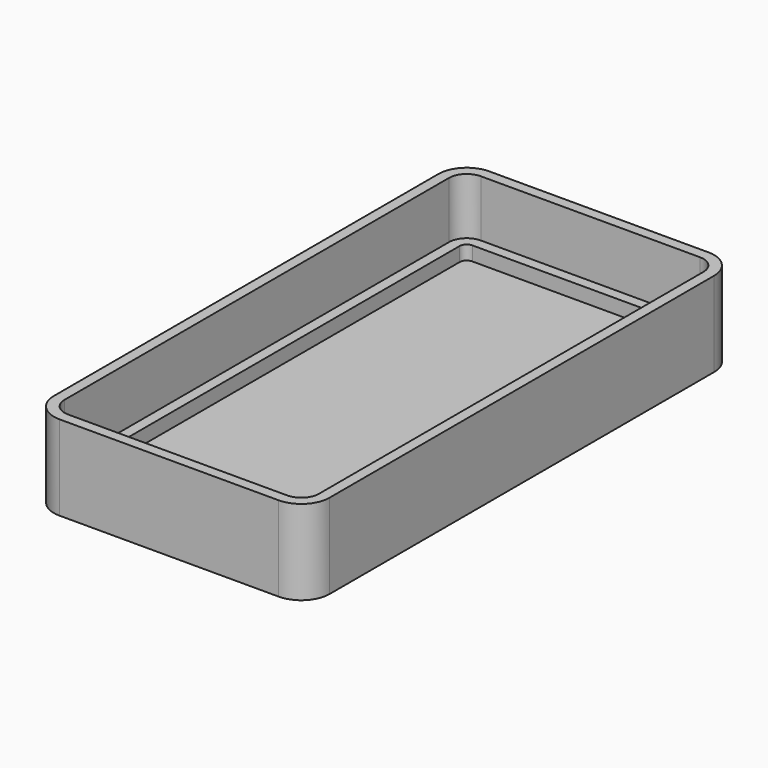
from build123d import *

# Parameters (mm, degrees)
F1_DEPTH = 2
F3_DEPTH = 2
F5_DEPTH = 10


with BuildPart() as f1:
    # F0 (on Top) → F1 (new body)
    with BuildSketch(Plane.XY):
        with BuildLine():
            Line((15.5, 38), (-15.5, 38))
            ThreePointArc((-15.5, 38), (-18.328427, 36.828427), (-19.5, 34))
            Line((-19.5, 34), (-19.5, -34))
            ThreePointArc((-19.5, -34), (-18.328427, -36.828427), (-15.5, -38))
            Line((-15.5, -38), (15.5, -38))
            ThreePointArc((15.5, -38), (18.328427, -36.828427), (19.5, -34))
            Line((19.5, -34), (19.5, 34))
            ThreePointArc((19.5, 34), (18.328427, 36.828427), (15.5, 38))
        make_face()
    extrude(amount=F1_DEPTH)

    # F2 (on face) → F3 (join)
    with BuildSketch(Plane.XY.offset(2)):
        with BuildLine():
            Line((19.5, -34), (19.5, 34))
            ThreePointArc((19.5, 34), (18.328427, 36.828427), (15.5, 38))
            Line((15.5, 38), (-15.5, 38))
            ThreePointArc((-15.5, 38), (-18.328427, 36.828427), (-19.5, 34))
            Line((-19.5, 34), (-19.5, -34))
            ThreePointArc((-19.5, -34), (-18.328427, -36.828427), (-15.5, -38))
            Line((-15.5, -38), (15.5, -38))
            ThreePointArc((15.5, -38), (18.328427, -36.828427), (19.5, -34))
        make_face()
        with BuildLine():
            ThreePointArc((-16.5, 34), (-16.207107, 34.707107), (-15.5, 35))
            Line((-15.5, 35), (15.5, 35))
            ThreePointArc((15.5, 35), (16.207107, 34.707107), (16.5, 34))
            Line((16.5, 34), (16.5, -34))
            ThreePointArc((16.5, -34), (16.207107, -34.707107), (15.5, -35))
            Line((15.5, -35), (-15.5, -35))
            ThreePointArc((-15.5, -35), (-16.207107, -34.707107), (-16.5, -34))
            Line((-16.5, -34), (-16.5, 34))
        make_face(mode=Mode.SUBTRACT)
    extrude(amount=F3_DEPTH)

    # F4 (on face) → F5 (join)
    with BuildSketch(Plane.XY.offset(2)):
        with BuildLine():
            ThreePointArc((-15.5, 38), (-18.328427, 36.828427), (-19.5, 34))
            Line((-19.5, 34), (-19.5, -34))
            ThreePointArc((-19.5, -34), (-18.328427, -36.828427), (-15.5, -38))
            Line((-15.5, -38), (15.5, -38))
            ThreePointArc((15.5, -38), (18.328427, -36.828427), (19.5, -34))
            Line((19.5, -34), (19.5, 34))
            ThreePointArc((19.5, 34), (18.328427, 36.828427), (15.5, 38))
            Line((15.5, 38), (-15.5, 38))
        make_face()
        with BuildLine():
            ThreePointArc((-18, 34), (-17.267767, 35.767767), (-15.5, 36.5))
            Line((-15.5, 36.5), (15.5, 36.5))
            ThreePointArc((15.5, 36.5), (17.267767, 35.767767), (18, 34))
            Line((18, 34), (18, -34))
            ThreePointArc((18, -34), (17.267767, -35.767767), (15.5, -36.5))
            Line((15.5, -36.5), (-15.5, -36.5))
            ThreePointArc((-15.5, -36.5), (-17.267767, -35.767767), (-18, -34))
            Line((-18, -34), (-18, 34))
        make_face(mode=Mode.SUBTRACT)
    extrude(amount=F5_DEPTH)


solid = f1.part
